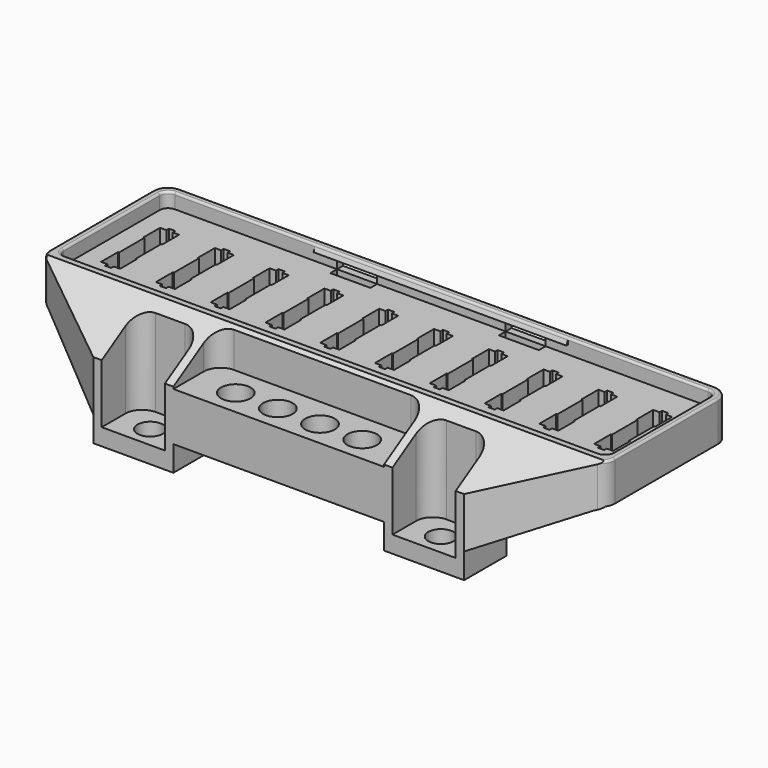
from build123d import *

# Parameters (mm, degrees)
PAD003_DEPTH    = 30
PAD_DEPTH       = 26.5
SKETCH001_W     = 15
SKETCH001_H     = 11
POCKET_DEPTH    = 22.5
SKETCH002_W     = 50
SKETCH002_H     = 13
POCKET001_DEPTH = 9
POCKET002_DEPTH = 134.001
POCKET003_DEPTH = 134.001
POCKET004_DEPTH = 50.001
SKETCH006_W     = 130.5
SKETCH006_H     = 32.5
POCKET005_DEPTH = 3.5
SKETCH007_W     = 50
SKETCH007_H     = 6
POCKET006_DEPTH = 10
SKETCH008_W     = 9.5
SKETCH008_H     = 2
POCKET007_DEPTH = 23.001
SKETCH009_R     = 3.5
SKETCH009_R_2   = 3
POCKET008_DEPTH = 17.501
FILLET_R        = 4
FILLET001_R     = 2
FILLET002_R     = 0.5
FILLET003_R     = 3.5
FILLET004_R     = 0.5
SKETCH011_W     = 42
SKETCH011_H     = 17.439236
POCKET010_DEPTH = 2
SKETCH016_W     = 4.5
SKETCH016_H     = 5
POCKET012_DEPTH = 9.501
SKETCH017_W     = 4
SKETCH017_H     = 10
POCKET013_DEPTH = 9.501
SKETCH018_W     = 2
SKETCH018_H     = 10
PAD001_DEPTH    = 4
SKETCH019_R     = 2.5
SKETCH019_R_2   = 1.35
PAD002_DEPTH    = 4
SKETCH020_W     = 1.5
SKETCH020_H     = 19
POCKET014_DEPTH = 9.501
SKETCH021_W     = 9.5
SKETCH021_H     = 2
POCKET015_DEPTH = 1.8
SKETCH022_W     = 9.5
SKETCH022_H     = 2
POCKET016_DEPTH = 1.6


with BuildPart() as body001:
    # Sketch023 → Pad003 (new body, symmetric)
    with BuildSketch(Plane.YZ):
        Polygon((16.25, 26), (15.85, 25), (16.25, 25), align=None)
    extrude(amount=PAD003_DEPTH, both=True)


with BuildPart() as bodyandlip:
    # Sketch → Pad (new body)
    with BuildSketch(Plane.XY):
        Polygon((-67, 18), (-67, -18), (-44, -32), (44, -32), (67, -18), (67, 18), align=None)
    extrude(amount=PAD_DEPTH)

    # Sketch001 → Pocket (cut)
    with BuildSketch(Plane.XY.offset(26.5)):
        with Locations((-34.5, -26.5)):
            Rectangle(SKETCH001_W, SKETCH001_H)
        with Locations((34.5, -26.5)):
            Rectangle(SKETCH001_W, SKETCH001_H)
    extrude(amount=-POCKET_DEPTH, mode=Mode.SUBTRACT)

    # Sketch002 → Pocket001 (cut)
    with BuildSketch(Plane.XY.offset(26.5)):
        with Locations((0, -25.5)):
            Rectangle(SKETCH002_W, SKETCH002_H)
    extrude(amount=-POCKET001_DEPTH, mode=Mode.SUBTRACT)

    # Sketch003 → Pocket002 (cut, through all)
    with BuildSketch(Plane.YZ.offset(67)):
        Polygon((-18, 26.5), (-32, 18), (-32, 26.5), align=None)
    extrude(amount=-POCKET002_DEPTH, mode=Mode.SUBTRACT)

    # Sketch004 → Pocket003 (cut, through all)
    with BuildSketch(Plane.YZ.offset(67)):
        Polygon((18, 17), (-18, 17), (-19.5, 16.089286), (-19.5, 0), (18, 0), align=None)
    extrude(amount=-POCKET003_DEPTH, mode=Mode.SUBTRACT)

    # Sketch005 → Pocket004 (cut, through all)
    with BuildSketch(Plane.XZ.offset(32)):
        Polygon((-44, 0), (-44, 6), (-64.535714, 16.089286), (-64.535714, 0), align=None)
        Polygon((44, 0), (44, 6), (64.535714, 16.089286), (64.535714, 0), align=None)
    extrude(amount=-POCKET004_DEPTH, mode=Mode.SUBTRACT)

    # Sketch006 → Pocket005 (cut)
    with BuildSketch(Plane.XY.offset(26.5)):
        Rectangle(SKETCH006_W, SKETCH006_H)
    extrude(amount=-POCKET005_DEPTH, mode=Mode.SUBTRACT)

    # Sketch007 → Pocket006 (cut)
    with BuildSketch(Plane.XZ.offset(32)):
        with Locations((0, 3)):
            Rectangle(SKETCH007_W, SKETCH007_H)
    extrude(amount=-POCKET006_DEPTH, mode=Mode.SUBTRACT)

    # Sketch008 → Pocket007 (cut, through all)
    with BuildSketch(Plane.XY.offset(23)):
        with Locations((-20, 15.25)):
            Rectangle(SKETCH008_W, SKETCH008_H)
        with Locations((20, 15.25)):
            Rectangle(SKETCH008_W, SKETCH008_H)
    extrude(amount=-POCKET007_DEPTH, mode=Mode.SUBTRACT)

    # Sketch009 → Pocket008 (cut, through all)
    with BuildSketch(Plane.XY.offset(17.5)):
        with Locations((-15, -26)):
            Circle(SKETCH009_R)
        with Locations((-5, -26)):
            Circle(SKETCH009_R)
        with Locations((15, -26)):
            Circle(SKETCH009_R)
        with Locations((5, -26)):
            Circle(SKETCH009_R)
        with Locations((-34.5, -27)):
            Circle(SKETCH009_R_2)
        with Locations((34.5, -27)):
            Circle(SKETCH009_R_2)
    extrude(amount=-POCKET008_DEPTH, mode=Mode.SUBTRACT)

    # Fillet
    fillet_edges = [bodyandlip.edges().sort_by_distance(p)[0] for p in [
        (-27, -21, 14.339286),
        (-42, -21, 14.339286),
        (42, -21, 14.339286),
        (27, -21, 14.339286),
        (-25, -19, 21.696429),
        (25, -19, 21.696429),
    ]]
    fillet(fillet_edges, radius=FILLET_R)

    # Fillet001
    fillet001_edges = [bodyandlip.edges().sort_by_distance(p)[0] for p in [
        (65.25, -16.25, 24.75),
        (65.25, 16.25, 24.75),
        (-65.25, -16.25, 24.75),
        (-65.25, 16.25, 24.75),
    ]]
    fillet(fillet001_edges, radius=FILLET001_R)

    # Fillet002
    fillet002_edges = [bodyandlip.edges().sort_by_distance(p)[0] for p in [
        (0, -16.25, 26.5),
    ]]
    fillet(fillet002_edges, radius=FILLET002_R)

    # Fillet003
    fillet003_edges = [bodyandlip.edges().sort_by_distance(p)[0] for p in [
        (-67, -18, 21.75),
        (-67, 18, 21.75),
        (67, -18, 21.75),
        (67, 18, 21.75),
    ]]
    fillet(fillet003_edges, radius=FILLET003_R)

    # Fillet004
    fillet004_edges = [bodyandlip.edges().sort_by_distance(p)[0] for p in [
        (-67, -0.766513, 26.5),
        (0, 18, 26.5),
        (67, -0.766513, 26.5),
    ]]
    fillet(fillet004_edges, radius=FILLET004_R)

    # Sketch011 → Pocket010 (cut)
    with BuildSketch(Plane.YZ.offset(4.125808)):
        Rectangle(SKETCH011_W, SKETCH011_H)
    extrude(amount=-POCKET010_DEPTH, mode=Mode.SUBTRACT)

    # Sketch016 (on Face51 of Pocket010) → Pocket012 (cut, through all)
    with BuildSketch(Plane(origin=(0, 0, 17), x_dir=(1, 0, 0), z_dir=(0, 0, -1))):
        with Locations((-58.5, -6.25)):
            Rectangle(SKETCH016_W, SKETCH016_H)
        with Locations((-45.5, -6.25)):
            Rectangle(SKETCH016_W, SKETCH016_H)
        with Locations((-32.5, -6.25)):
            Rectangle(SKETCH016_W, SKETCH016_H)
        with Locations((-19.5, -6.25)):
            Rectangle(SKETCH016_W, SKETCH016_H)
        with Locations((-6.5, -6.25)):
            Rectangle(SKETCH016_W, SKETCH016_H)
        with Locations((6.5, -6.25)):
            Rectangle(SKETCH016_W, SKETCH016_H)
        with Locations((19.5, -6.25)):
            Rectangle(SKETCH016_W, SKETCH016_H)
        with Locations((32.5, -6.25)):
            Rectangle(SKETCH016_W, SKETCH016_H)
        with Locations((45.5, -6.25)):
            Rectangle(SKETCH016_W, SKETCH016_H)
        with Locations((58.5, -6.25)):
            Rectangle(SKETCH016_W, SKETCH016_H)
        with Locations((-58.5, 6.25)):
            Rectangle(SKETCH016_W, SKETCH016_H)
        with Locations((-45.5, 6.25)):
            Rectangle(SKETCH016_W, SKETCH016_H)
        with Locations((-32.5, 6.25)):
            Rectangle(SKETCH016_W, SKETCH016_H)
        with Locations((-19.5, 6.25)):
            Rectangle(SKETCH016_W, SKETCH016_H)
        with Locations((-6.5, 6.25)):
            Rectangle(SKETCH016_W, SKETCH016_H)
        with Locations((6.5, 6.25)):
            Rectangle(SKETCH016_W, SKETCH016_H)
        with Locations((19.5, 6.25)):
            Rectangle(SKETCH016_W, SKETCH016_H)
        with Locations((32.5, 6.25)):
            Rectangle(SKETCH016_W, SKETCH016_H)
        with Locations((45.5, 6.25)):
            Rectangle(SKETCH016_W, SKETCH016_H)
        with Locations((58.5, 6.25)):
            Rectangle(SKETCH016_W, SKETCH016_H)
    extrude(amount=-POCKET012_DEPTH, mode=Mode.SUBTRACT)

    # Sketch017 (on Face51 of Pocket012) → Pocket013 (cut, through all)
    with BuildSketch(Plane(origin=(0, 0, 17), x_dir=(1, 0, 0), z_dir=(0, 0, -1))):
        with Locations((58.5, 0)):
            Rectangle(SKETCH017_W, SKETCH017_H)
        with Locations((45.5, 0)):
            Rectangle(SKETCH017_W, SKETCH017_H)
        with Locations((32.5, 0)):
            Rectangle(SKETCH017_W, SKETCH017_H)
        with Locations((19.5, 0)):
            Rectangle(SKETCH017_W, SKETCH017_H)
        with Locations((6.5, 0)):
            Rectangle(SKETCH017_W, SKETCH017_H)
        with Locations((-6.5, 0)):
            Rectangle(SKETCH017_W, SKETCH017_H)
        with Locations((-19.5, 0)):
            Rectangle(SKETCH017_W, SKETCH017_H)
        with Locations((-32.5, 0)):
            Rectangle(SKETCH017_W, SKETCH017_H)
        with Locations((-45.5, 0)):
            Rectangle(SKETCH017_W, SKETCH017_H)
        with Locations((-58.5, 0)):
            Rectangle(SKETCH017_W, SKETCH017_H)
    extrude(amount=-POCKET013_DEPTH, mode=Mode.SUBTRACT)

    # Sketch018 (on Face51 of Pocket013) → Pad001 (join)
    with BuildSketch(Plane(origin=(0, 0, 17), x_dir=(1, 0, 0), z_dir=(0, 0, -1))):
        with Locations((52, 12)):
            Rectangle(SKETCH018_W, SKETCH018_H)
        with Locations((39, 12)):
            Rectangle(SKETCH018_W, SKETCH018_H)
        with Locations((26, 12)):
            Rectangle(SKETCH018_W, SKETCH018_H)
        with Locations((13, 12)):
            Rectangle(SKETCH018_W, SKETCH018_H)
        with Locations((0, 12)):
            Rectangle(SKETCH018_W, SKETCH018_H)
        with Locations((-13, 12)):
            Rectangle(SKETCH018_W, SKETCH018_H)
        with Locations((-26, 12)):
            Rectangle(SKETCH018_W, SKETCH018_H)
        with Locations((-39, 12)):
            Rectangle(SKETCH018_W, SKETCH018_H)
        with Locations((-52, 12)):
            Rectangle(SKETCH018_W, SKETCH018_H)
        with Locations((52, -12)):
            Rectangle(SKETCH018_W, SKETCH018_H)
        with Locations((39, -12)):
            Rectangle(SKETCH018_W, SKETCH018_H)
        with Locations((26, -12)):
            Rectangle(SKETCH018_W, SKETCH018_H)
        with Locations((13, -12)):
            Rectangle(SKETCH018_W, SKETCH018_H)
        with Locations((0, -12)):
            Rectangle(SKETCH018_W, SKETCH018_H)
        with Locations((-13, -12)):
            Rectangle(SKETCH018_W, SKETCH018_H)
        with Locations((-26, -12)):
            Rectangle(SKETCH018_W, SKETCH018_H)
        with Locations((-39, -12)):
            Rectangle(SKETCH018_W, SKETCH018_H)
        with Locations((-52, -12)):
            Rectangle(SKETCH018_W, SKETCH018_H)
    extrude(amount=PAD001_DEPTH)

    # Sketch019 (on Face51 of Pocket010) → Pad002 (join)
    with BuildSketch(Plane(origin=(0, 0, 17), x_dir=(1, 0, 0), z_dir=(0, 0, -1))):
        with Locations((-63, 0)):
            Circle(SKETCH019_R)
        with Locations((-63, 0)):
            Circle(SKETCH019_R_2, mode=Mode.SUBTRACT)
        with Locations((-54, 0)):
            Circle(SKETCH019_R)
        with Locations((-54, 0)):
            Circle(SKETCH019_R_2, mode=Mode.SUBTRACT)
        with Locations((-37, 0)):
            Circle(SKETCH019_R)
        with Locations((-37, 0)):
            Circle(SKETCH019_R_2, mode=Mode.SUBTRACT)
        with Locations((-28, 0)):
            Circle(SKETCH019_R)
        with Locations((-28, 0)):
            Circle(SKETCH019_R_2, mode=Mode.SUBTRACT)
        with Locations((2, 0)):
            Circle(SKETCH019_R)
        with Locations((2, 0)):
            Circle(SKETCH019_R_2, mode=Mode.SUBTRACT)
        with Locations((11, 0)):
            Circle(SKETCH019_R)
        with Locations((11, 0)):
            Circle(SKETCH019_R_2, mode=Mode.SUBTRACT)
        with Locations((50, 0)):
            Circle(SKETCH019_R)
        with Locations((50, 0)):
            Circle(SKETCH019_R_2, mode=Mode.SUBTRACT)
        with Locations((41, 0)):
            Circle(SKETCH019_R)
        with Locations((41, 0)):
            Circle(SKETCH019_R_2, mode=Mode.SUBTRACT)
    extrude(amount=PAD002_DEPTH)

    # Sketch020 (on Face51 of Pad002) → Pocket014 (cut, through all)
    with BuildSketch(Plane(origin=(0, 0, 17), x_dir=(1, 0, 0), z_dir=(0, 0, -1))):
        with Locations((58.5, 0)):
            Rectangle(SKETCH020_W, SKETCH020_H)
        with Locations((45.5, 0)):
            Rectangle(SKETCH020_W, SKETCH020_H)
        with Locations((32.5, 0)):
            Rectangle(SKETCH020_W, SKETCH020_H)
        with Locations((19.5, 0)):
            Rectangle(SKETCH020_W, SKETCH020_H)
        with Locations((6.5, 0)):
            Rectangle(SKETCH020_W, SKETCH020_H)
        with Locations((-6.5, 0)):
            Rectangle(SKETCH020_W, SKETCH020_H)
        with Locations((-19.5, 0)):
            Rectangle(SKETCH020_W, SKETCH020_H)
        with Locations((-32.5, 0)):
            Rectangle(SKETCH020_W, SKETCH020_H)
        with Locations((-45.5, 0)):
            Rectangle(SKETCH020_W, SKETCH020_H)
        with Locations((-58.5, 0)):
            Rectangle(SKETCH020_W, SKETCH020_H)
    extrude(amount=-POCKET014_DEPTH, mode=Mode.SUBTRACT)

    # Sketch021 (on Face50 of Pocket014) → Pocket015 (cut)
    with BuildSketch(Plane.XZ.offset(-16.25)):
        with Locations((-20, 24)):
            Rectangle(SKETCH021_W, SKETCH021_H)
        with Locations((20, 24)):
            Rectangle(SKETCH021_W, SKETCH021_H)
    extrude(amount=-POCKET015_DEPTH, mode=Mode.SUBTRACT)

    # Sketch022 (on Face43 of Pocket015) → Pocket016 (cut)
    with BuildSketch(Plane(origin=(0, -16.25, 0), x_dir=(-1, 0, 0), z_dir=(0, 1, 0))):
        with Locations((0, 24)):
            Rectangle(SKETCH022_W, SKETCH022_H)
    extrude(amount=-POCKET016_DEPTH, mode=Mode.SUBTRACT)

    # Fusion: union Body001
    add(body001.part)


solid = bodyandlip.part
